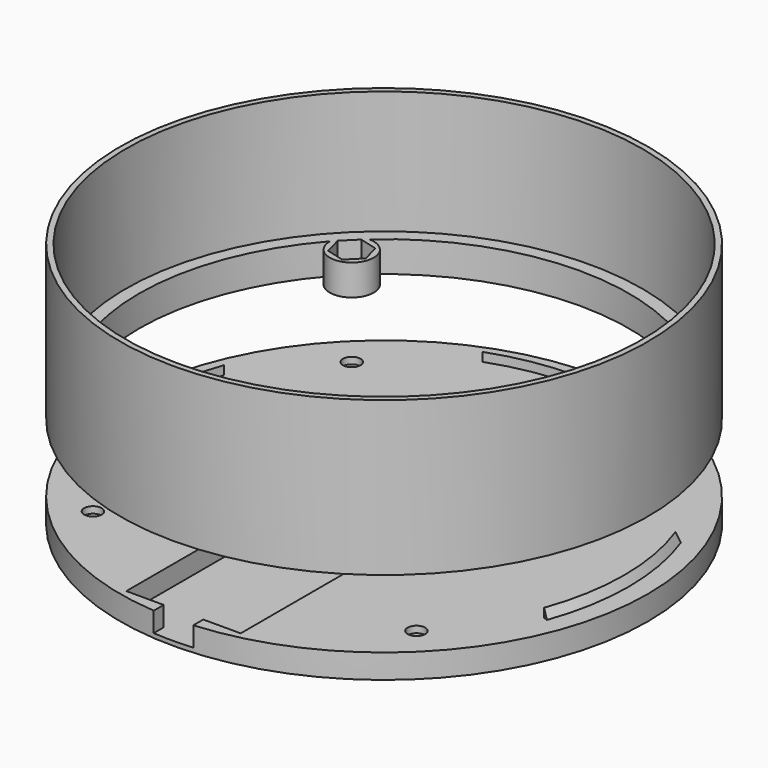
from build123d import *

# Parameters (mm, degrees)
SKETCH_R                = 60
PAD_DEPTH               = 5.5
POCKET_DEPTH            = 4.5
HOLE_D                  = 4
HOLE_CBORE_D            = 7
HOLE_CBORE_DEPTH        = 4
POLARPATTERN_COUNT      = 4
PAD004_DEPTH            = 2
POLARPATTERN002_COUNT   = 3
POLARPATTERN002_ANGLE   = 180
SKETCH009_R             = 2
POCKET002_DEPTH         = 3
SKETCH010_R             = 3.5
POCKET003_DEPTH         = 3.501
SKETCH003_R             = 60
SKETCH003_R_2           = 58.7
PAD001_DEPTH            = 35
SKETCH004_R             = 58.7
SKETCH004_R_2           = 55.7
PAD002_DEPTH            = 7
SKETCH005_R             = 2
PAD003_DEPTH            = 7
POCKET001_DEPTH         = 4
POLARPATTERN001_COUNT   = 4
BODY001_ROLL_ANGLE      = 180
BODY001_PLACEMENT_ANGLE = -90


with BuildPart() as bottom_plate:
    # Sketch → Pad (new body)
    with BuildSketch(Plane.XY):
        Circle(SKETCH_R)
    extrude(amount=PAD_DEPTH)

    # Sketch001 (on Face3 of Pad) → Pocket (cut)
    with BuildSketch(Plane.XY.offset(5.5)):
        Polygon((-13, -8), (13, -8), (13, -57), (4.5, -57), (4.5, -60), (-4.5, -60), (-4.5, -57), (-13, -57), align=None)
    extrude(amount=-POCKET_DEPTH, mode=Mode.SUBTRACT)

    # Hole (through all)
    with Locations(Plane(origin=(0, 0, 0), x_dir=(1, 0, 0), z_dir=(0, 0, -1))):
        with Locations((-36.769553, 36.769553)):
            hole = CounterBoreHole(HOLE_D / 2, HOLE_CBORE_D / 2, HOLE_CBORE_DEPTH)

    # PolarPattern: Hole ×4 about axis
    polarpattern_axis = Axis((0, 0, 0), (0, 0, -1))
    for i in range(1, POLARPATTERN_COUNT):
        add(hole.rotate(polarpattern_axis, i * 360 / POLARPATTERN_COUNT), mode=Mode.SUBTRACT)

    # Sketch007 (on Face3 of PolarPattern) → Pad004 (join)
    with BuildSketch(Plane.XY.offset(5.5)):
        with BuildLine():
            ThreePointArc((52.24691, -19.01632), (55.6, 0), (52.24691, 19.01632))
            Line((52.24691, 19.01632), (51.307217, 18.6743))
            ThreePointArc((51.307217, -18.6743), (54.6, 0), (51.307217, 18.6743))
            Line((52.24691, -19.01632), (51.307217, -18.6743))
        make_face()
    pad004 = extrude(amount=PAD004_DEPTH)

    # Sketch008 (on Face18 of Pad004) → Groove (revolve, cut)
    with BuildSketch(Plane(origin=(0, 0, 0), x_dir=(-0.939693, -0.34202, 0), z_dir=(-0.34202, 0.939693, 0))):
        Polygon((-55.6, 5.5), (-54.6, 7.5), (-55.6, 7.5), align=None)
    groove = revolve(axis=Axis((0, 0, 0), (0, 0, 1)), mode=Mode.SUBTRACT)

    # PolarPattern002: Pad004, Groove ×3 about axis
    polarpattern002_axis = Axis((0, 0, 0), (0, 0, 1))
    for i in range(1, POLARPATTERN002_COUNT):
        add(pad004.rotate(polarpattern002_axis, i * POLARPATTERN002_ANGLE / (POLARPATTERN002_COUNT - 1)))
        add(groove.rotate(polarpattern002_axis, i * POLARPATTERN002_ANGLE / (POLARPATTERN002_COUNT - 1)), mode=Mode.SUBTRACT)

    # Sketch009 (on Face2 of PolarPattern002) → Pocket002 (cut)
    with BuildSketch(Plane(origin=(0, 0, 0), x_dir=(1, 0, 0), z_dir=(0, 0, -1))):
        with Locations((0, -47)):
            Circle(SKETCH009_R)
    extrude(amount=-POCKET002_DEPTH, mode=Mode.SUBTRACT)

    # Sketch010 (on Face23 of Pocket002) → Pocket003 (cut, through all)
    with BuildSketch(Plane(origin=(0, 0, 4), x_dir=(1, 0, 0), z_dir=(0, 0, -1))):
        with Locations((0, -47)):
            Circle(SKETCH010_R)
    extrude(amount=-POCKET003_DEPTH, mode=Mode.SUBTRACT)


with BuildPart() as led_wall:
    # Sketch003 (on Face1 of ReferencePolarPattern) → Pad001 (new body)
    with BuildSketch(Plane(origin=(0, 0, 0), x_dir=(1, 0, 0), z_dir=(0, 0, -1))):
        Circle(SKETCH003_R)
        Circle(SKETCH003_R_2, mode=Mode.SUBTRACT)
    extrude(amount=PAD001_DEPTH)

    # Sketch004 (on ReferencePolarPattern) → Pad002 (join)
    with BuildSketch(Plane(origin=(0, 0, 0), x_dir=(1, 0, 0), z_dir=(0, 0, -1))):
        Circle(SKETCH004_R)
        Circle(SKETCH004_R_2, mode=Mode.SUBTRACT)
    extrude(amount=PAD002_DEPTH)

    # Sketch005 (on ReferencePolarPattern) → Pad003 (join)
    with BuildSketch(Plane(origin=(0, 0, 0), x_dir=(1, 0, 0), z_dir=(0, 0, -1))):
        with BuildLine():
            ThreePointArc((-41.768922, 36.848978), (-33.234019, 33.234019), (-36.848978, 41.768922))
            ThreePointArc((-36.848978, 41.768922), (-39.385848, 39.385848), (-41.768922, 36.848978))
        make_face()
        with Locations((-36.769553, 36.769553)):
            Circle(SKETCH005_R, mode=Mode.SUBTRACT)
    pad003 = extrude(amount=PAD003_DEPTH)

    # Sketch006 (on Face12 of Pad003) → Pocket001 (cut)
    with BuildSketch(Plane(origin=(0, 0, -7), x_dir=(1, 0, 0), z_dir=(0, 0, -1))):
        Polygon((-40.840599, 37.860386), (-39.749765, 33.78934), (-35.678719, 32.698507), (-32.698507, 35.678719), (-33.78934, 39.749765), (-37.860386, 40.840599), align=None)
    pocket001 = extrude(amount=-POCKET001_DEPTH, mode=Mode.SUBTRACT)

    # PolarPattern001: Pad003, Pocket001 ×4 about axis
    polarpattern001_axis = Axis((0, 0, 0), (0, 0, -1))
    for i in range(1, POLARPATTERN001_COUNT):
        add(pad003.rotate(polarpattern001_axis, i * 360 / POLARPATTERN001_COUNT))
        add(pocket001.rotate(polarpattern001_axis, i * 360 / POLARPATTERN001_COUNT), mode=Mode.SUBTRACT)


with BuildPart() as led_wall_1:
    # Body001 roll: moved
    add(led_wall.part.rotate(Axis((0, 0, 0), (1, 0, 0)), BODY001_ROLL_ANGLE))


with BuildPart() as led_wall_2:
    # Body001 placement: moved
    add(led_wall_1.part.moved(Location((0, 0, 21))).rotate(Axis((0, 0, 21), (0, 0, 1)), BODY001_PLACEMENT_ANGLE))


solid = Compound([bottom_plate.part, led_wall_2.part])
